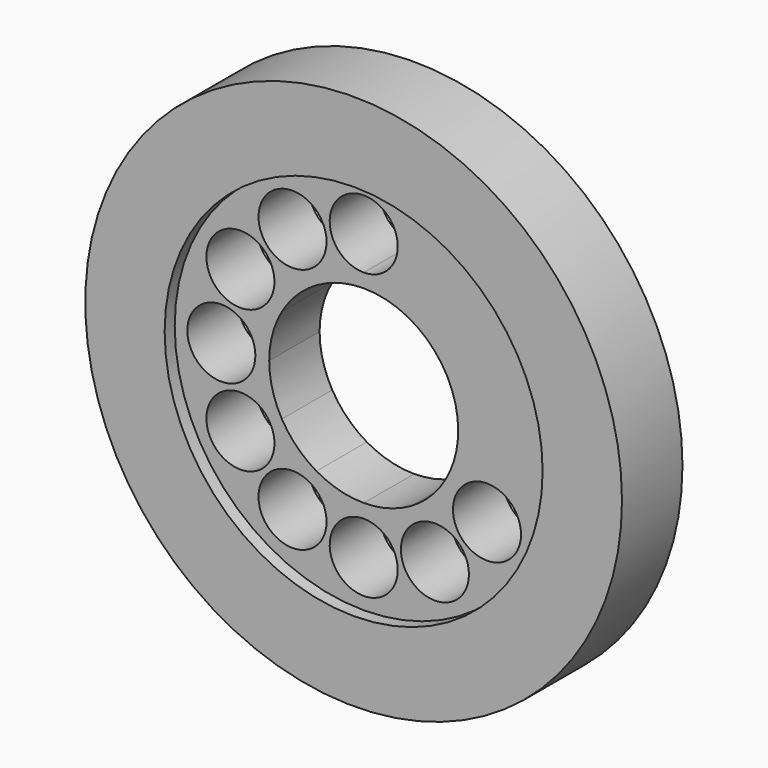
from build123d import *

# Parameters (mm, degrees)
F0_R     = 106.5
F0_R_2   = 75
F1_DEPTH = 30
F0_R_3   = 13.5
F2_DEPTH = 25


with BuildPart() as f1:
    # F0 (on Front) → F1 (new body)
    with BuildSketch(Plane.XZ):
        Circle(F0_R)
        Circle(F0_R_2, mode=Mode.SUBTRACT)
    extrude(amount=F1_DEPTH)

    # F0 (on Front) → F2 (join)
    with BuildSketch(Plane.XZ):
        Circle(F0_R_2)
        with BuildLine():
            ThreePointArc((-14.75, -48.930435), (-39.941343, -55.680435), (-21.5, -37.239092))
            ThreePointArc((-21.5, -37.239092), (-16.558657, -42.180435), (-14.75, -48.930435))
        make_face(mode=Mode.SUBTRACT)
        with BuildLine():
            ThreePointArc((-35.430435, -28.25), (-61.970434, -31.744057), (-37.239092, -21.5))
            ThreePointArc((-37.239092, -21.5), (-35.890437, -24.755943), (-35.430435, -28.25))
        make_face(mode=Mode.SUBTRACT)
        with BuildLine():
            ThreePointArc((13.5, -56.5), (-9.545942, -66.045942), (0, -43))
            ThreePointArc((0, -43), (9.545942, -46.954058), (13.5, -56.5))
        make_face(mode=Mode.SUBTRACT)
        with BuildLine():
            ThreePointArc((41.75, -48.930435), (21.5, -60.621778), (21.5, -37.239092))
            ThreePointArc((21.5, -37.239092), (35, -37.239092), (41.75, -48.930435))
        make_face(mode=Mode.SUBTRACT)
        with BuildLine():
            ThreePointArc((62.430435, -28.25), (45.436378, -41.289999), (37.239092, -21.5))
            ThreePointArc((37.239092, -21.5), (52.424492, -15.210001), (62.430435, -28.25))
        make_face(mode=Mode.SUBTRACT)
        with Locations((-56.5, 0)):
            Circle(F0_R_3, mode=Mode.SUBTRACT)
        with BuildLine():
            ThreePointArc((-35.430435, 28.25), (-35.890437, 24.755943), (-37.239092, 21.5))
            ThreePointArc((-37.239092, 21.5), (-61.970434, 31.744057), (-35.430435, 28.25))
        make_face(mode=Mode.SUBTRACT)
        with BuildLine():
            ThreePointArc((-14.75, 48.930435), (-16.558657, 42.180435), (-21.5, 37.239092))
            ThreePointArc((-21.5, 37.239092), (-39.941343, 55.680435), (-14.75, 48.930435))
        make_face(mode=Mode.SUBTRACT)
        with BuildLine():
            ThreePointArc((-18.75, 32.475953), (-9.705714, 36.222218), (0, 37.5))
            ThreePointArc((0, 37.5), (26.516504, 26.516504), (37.5, 0))
            ThreePointArc((37.5, 0), (36.222218, -9.705714), (32.475953, -18.75))
            ThreePointArc((32.475953, -18.75), (26.516504, -26.516504), (18.75, -32.475953))
            ThreePointArc((18.75, -32.475953), (9.705714, -36.222218), (0, -37.5))
            ThreePointArc((0, -37.5), (-9.705714, -36.222218), (-18.75, -32.475953))
            ThreePointArc((-18.75, -32.475953), (-26.516504, -26.516504), (-32.475953, -18.75))
            ThreePointArc((-32.475953, -18.75), (-36.222218, -9.705714), (-37.5, 0))
            ThreePointArc((-37.5, 0), (-36.222218, 9.705714), (-32.475953, 18.75))
            ThreePointArc((-32.475953, 18.75), (-26.516504, 26.516504), (-18.75, 32.475953))
        make_face(mode=Mode.SUBTRACT)
        with BuildLine():
            ThreePointArc((13.5, 56.5), (9.545942, 46.954058), (0, 43))
            ThreePointArc((0, 43), (-9.545942, 66.045942), (13.5, 56.5))
        make_face(mode=Mode.SUBTRACT)
    extrude(amount=F2_DEPTH)


solid = f1.part
